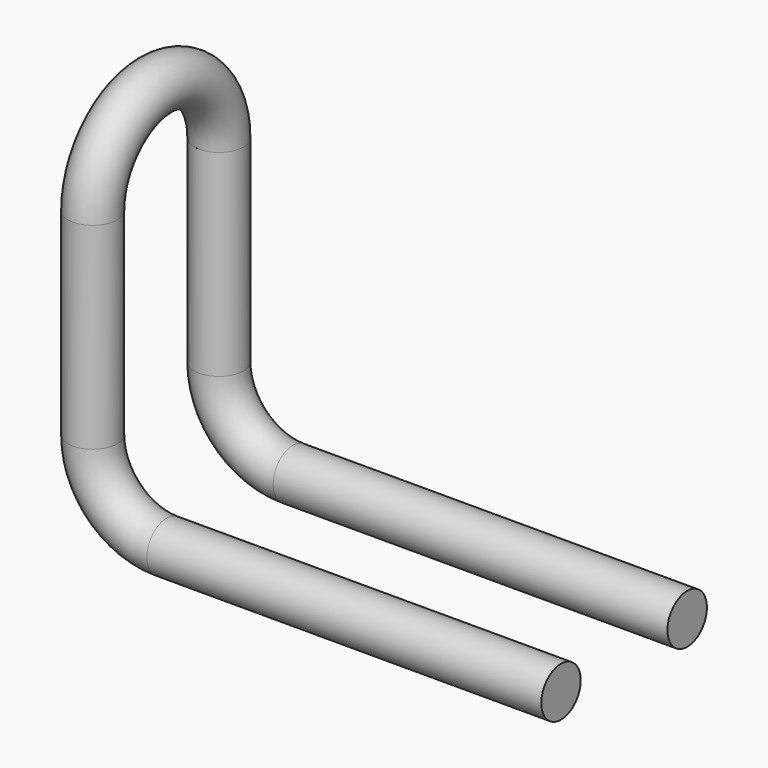
from build123d import *

# Parameters (mm, degrees)
F2_R     = 3.175
F6_R     = 3.175
F7_ANGLE = 180


with BuildPart() as f3:
    # F3: sweep along a path in F0
    with BuildLine(Plane.XZ) as f3_path:
        Line((-9.525, 25.4), (-9.525, 0))
        ThreePointArc((-9.525, 0), (-6.7351920908, -6.7351920908), (0, -9.525))
        Line((0, -9.525), (50.8, -9.525))
    # F2 (on plane+point) → F3 (sweep)
    with BuildSketch(Plane.YZ.offset(50.8)):
        with Locations((0, -9.525)):
            Circle(F2_R)
    sweep(path=f3_path.line)


with BuildPart() as f5_1:
    # F5: instance of F3
    add(f3.part.mirror(Plane.XZ.offset(-10.16)))


with BuildPart() as f7:
    # F6 (on face) → F7 (revolve)
    with BuildSketch(Plane.XY.offset(25.4)):
        with Locations((-9.525, 0)):
            Circle(F6_R)
    revolve(axis=Axis((-28.8036, 10.16, 25.4), (-1, 0, 0)), revolution_arc=F7_ANGLE)


solid = Compound([f3.part, f5_1.part, f7.part])
